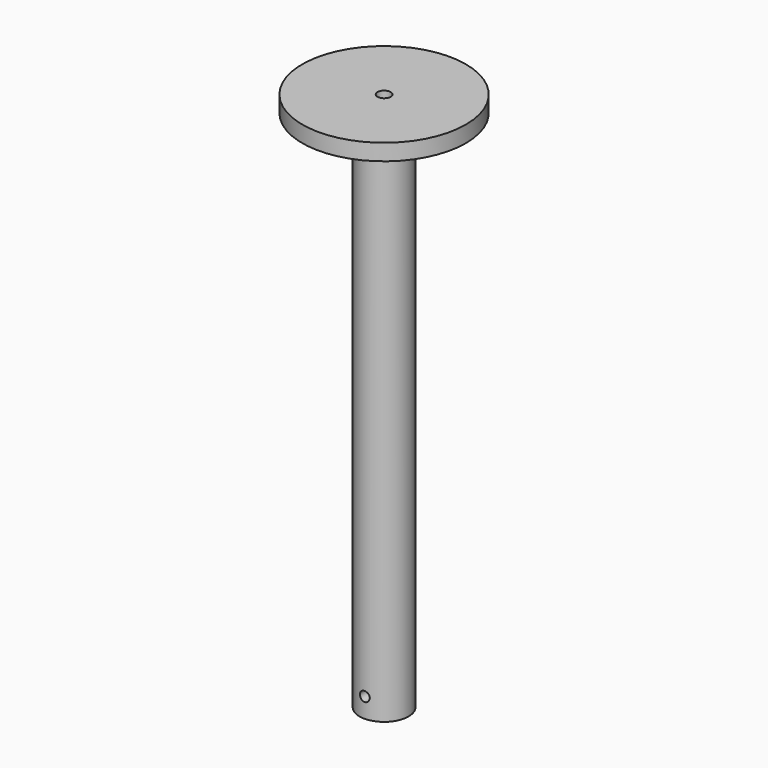
from build123d import *

# Parameters (mm, degrees)
F0_R          = 7.5
F1_DEPTH      = 160
F2_R          = 25
F3_DEPTH      = 5
F4_R          = 1.5
F5_DEPTH      = 7.5
F5_DEPTH_BACK = 7.5
F6_R          = 2
F7_DEPTH      = 10


with BuildPart() as f1:
    # F0 (on Top) → F1 (new body)
    with BuildSketch(Plane.XY):
        Circle(F0_R)
    extrude(amount=F1_DEPTH)

    # F2 (on face) → F3 (join)
    with BuildSketch(Plane.XY.offset(160)):
        Circle(F2_R)
    extrude(amount=F3_DEPTH)

    # F4 (on Front) → F5 (cut, two sides)
    with BuildSketch(Plane.XZ) as f5_sk:
        with Locations((0, 6)):
            Circle(F4_R)
    extrude(amount=-F5_DEPTH, mode=Mode.SUBTRACT)
    extrude(f5_sk.sketch, amount=F5_DEPTH_BACK, mode=Mode.SUBTRACT)

    # F6 (on face) → F7 (cut)
    with BuildSketch(Plane.XY.offset(165)):
        Circle(F6_R)
    extrude(amount=-F7_DEPTH, mode=Mode.SUBTRACT)


solid = f1.part
